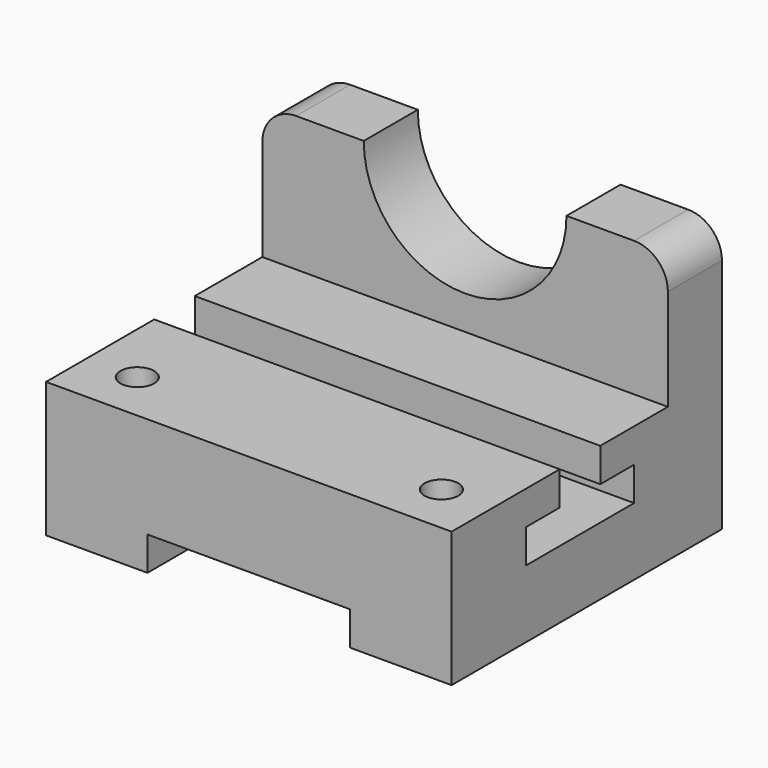
from build123d import *

# Parameters (mm, degrees)
F1_DEPTH = 152.4
F2_W     = 76.2
F2_H     = 12.7
F3_DEPTH = 152.4
F5_DEPTH = 149.225
F6_R     = 12.7
F7_R     = 6.35
F8_DEPTH = 80.645


with BuildPart() as f1:
    # F0 (on Right) → F1 (new body)
    with BuildSketch(Plane.YZ):
        Polygon((0, 50.8), (0, 0), (127, 0), (127, 101.6), (101.6, 101.6), (101.6, 50.8), (69.85, 50.8), (69.85, 38.1), (85.725, 38.1), (85.725, 25.4), (34.925, 25.4), (34.925, 38.1), (50.8, 38.1), (50.8, 50.8), align=None)
    extrude(amount=F1_DEPTH)

    # F2 (on Front) → F3 (cut)
    with BuildSketch(Plane.XZ):
        with Locations((76.2, 6.35)):
            Rectangle(F2_W, F2_H)
    extrude(amount=-F3_DEPTH, mode=Mode.SUBTRACT)

    # F4 (on Front) → F5 (cut)
    with BuildSketch(Plane.XZ):
        with BuildLine():
            ThreePointArc((38.1, 101.6), (76.2, 63.5), (114.3, 101.6))
            Line((114.3, 101.6), (38.1, 101.6))
        make_face()
    extrude(amount=-F5_DEPTH, mode=Mode.SUBTRACT)

    # F6
    f6_edges = [f1.edges().sort_by_distance(p)[0] for p in [
        (152.4, 114.3, 101.6),
        (0, 114.3, 101.6),
    ]]
    fillet(f6_edges, radius=F6_R)

    # F7 (on face) → F8 (cut)
    with BuildSketch(Plane.XY.offset(50.8)):
        with Locations((19.05, 19.05)):
            Circle(F7_R)
        with Locations((133.35, 19.05)):
            Circle(F7_R)
    extrude(amount=-F8_DEPTH, mode=Mode.SUBTRACT)


solid = f1.part
